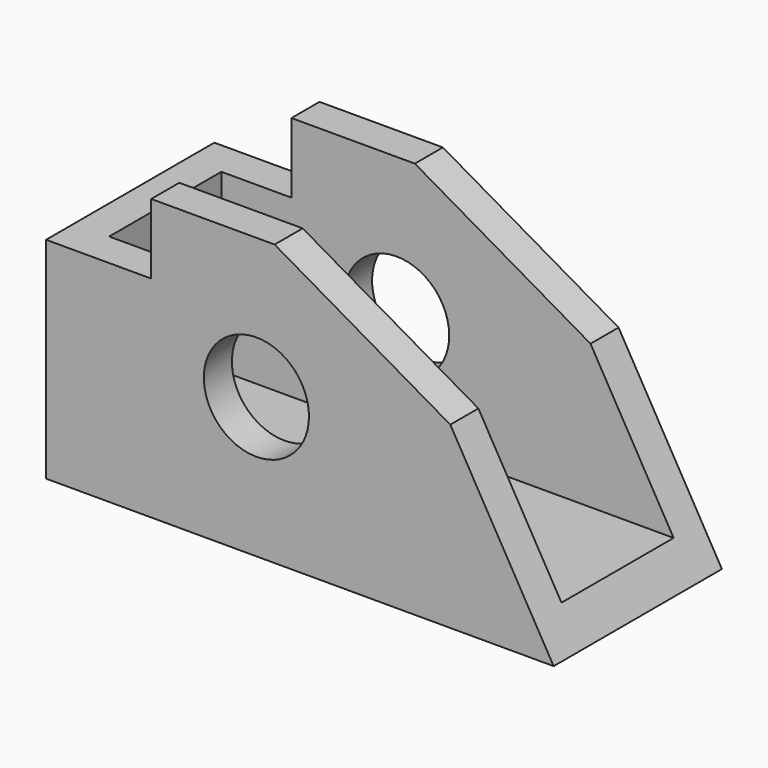
from build123d import *

# Parameters (mm, degrees)
F1_DEPTH = 15
F2_W     = 10
F2_H     = 7.5
F2_H_2   = 12.5
F3_DEPTH = 40
F4_R     = 3.75
F5_DEPTH = 29
F6_W     = 2.5
F6_H     = 10
F7_DEPTH = 12.5


with BuildPart() as f1:
    # F0 (on Front) → F1 (new body)
    with BuildSketch(Plane.XZ):
        Polygon((0, 15), (0, 0), (36.2, 0), (28.829492, 12.766094), (16.3, 20), (7.5, 20), (7.5, 15), align=None)
    extrude(amount=F1_DEPTH)

    # F2 (on face) → F3 (cut)
    with BuildSketch(Plane(origin=(0, 0, 0), x_dir=(0, -1, 0), z_dir=(-1, 0, 0))):
        with Locations((7.5, 18.75)):
            Rectangle(F2_W, F2_H)
        with Locations((7.5, 8.75)):
            Rectangle(F2_W, F2_H_2)
    extrude(amount=-F3_DEPTH, mode=Mode.SUBTRACT)

    # F4 (on face) → F5 (cut)
    with BuildSketch(Plane.XZ.offset(15)):
        with Locations((15, 10)):
            Circle(F4_R)
    extrude(amount=-F5_DEPTH, mode=Mode.SUBTRACT)

    # F6 (on face) → F7 (join)
    with BuildSketch(Plane.XY.offset(2.5)):
        with Locations((1.25, -7.5)):
            Rectangle(F6_W, F6_H)
    extrude(amount=F7_DEPTH)


solid = f1.part
